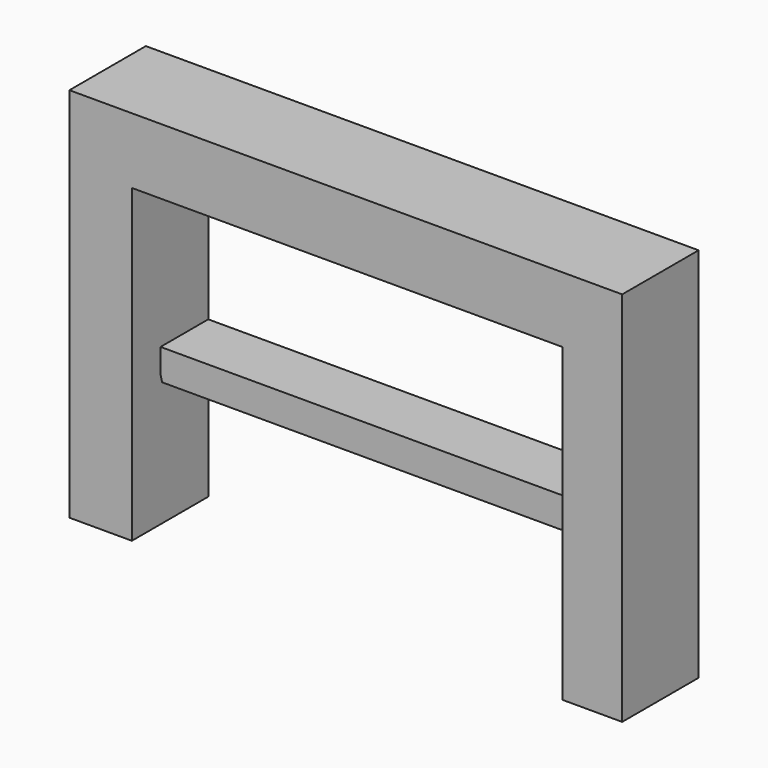
from build123d import *

# Parameters (mm, degrees)
F1_DEPTH = 8
F3_DEPTH = 5


with BuildPart() as f1:
    # F0 (on Front) → F1 (new body)
    with BuildSketch(Plane.XZ):
        Polygon((-58.511805, 31.527534), (-58.511805, 0), (-53.28016, 0), (-53.28016, 26.020542), (-17.209353, 26.020542), (-17.209353, 0), (-12.209353, 0), (-12.209353, 31.527534), align=None)
    extrude(amount=F1_DEPTH)

    # F2 (on Front) → F3 (join)
    with BuildSketch(Plane.XZ):
        Polygon((-17.034521, 13.079109), (-52.729461, 13.079109), (-53.761143, 13.079109), (-53.147573, 10.511915), (-17.122176, 10.511915), align=None)
    extrude(amount=F3_DEPTH)


solid = f1.part
